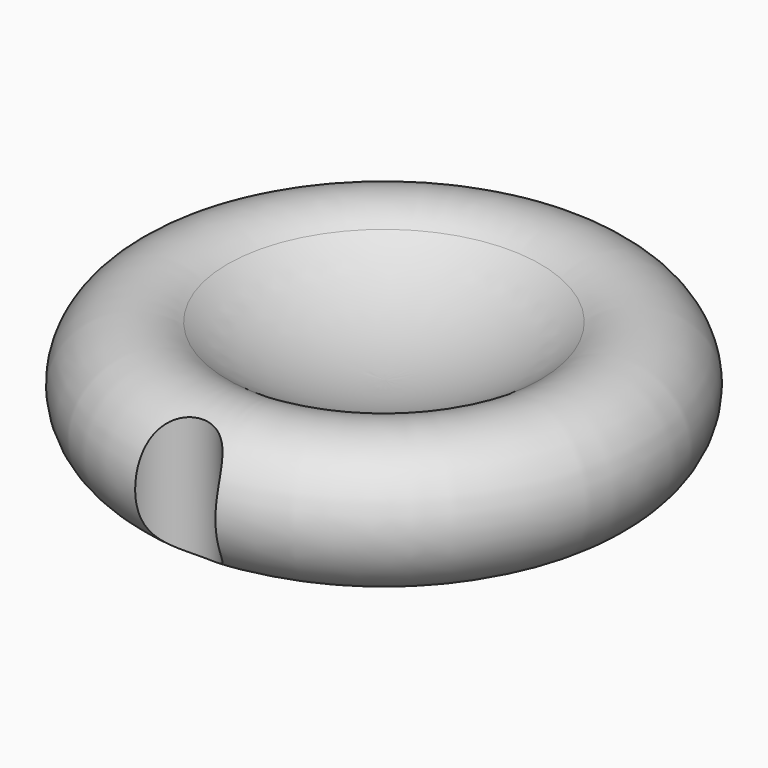
from build123d import *

# Parameters (mm, degrees)
F2_R     = 2.714454
F3_DEPTH = 25


with BuildPart() as f1:
    # F0 (on Front) → F1 (revolve)
    with BuildSketch(Plane.XZ):
        with BuildLine():
            Line((-13.131142, 0), (0, 0))
            Line((0, 0), (0, 4.778288))
            ThreePointArc((0, 4.778288), (-5.503935, 5.651343), (-10.467517, 8.184793))
            ThreePointArc((-10.467517, 8.184793), (-9.097652, 6.578611), (-8.605326, 4.525816))
            ThreePointArc((-8.605326, 4.525816), (-9.930907, 1.325581), (-13.131142, 0))
        make_face()
        with BuildLine():
            ThreePointArc((-10.467517, 8.184793), (-17.434795, 5.926378), (-13.131142, 0))
            ThreePointArc((-13.131142, 0), (-9.930907, 1.325581), (-8.605326, 4.525816))
            ThreePointArc((-8.605326, 4.525816), (-9.097652, 6.578611), (-10.467517, 8.184793))
        make_face()
    revolve(axis=Axis((0, 0, 2.389144), (0, 0, 1)))

    # F2 (on Top) → F3 (cut)
    with BuildSketch(Plane.XY):
        with Locations((0, -17.847622)):
            Circle(F2_R)
    extrude(amount=F3_DEPTH, mode=Mode.SUBTRACT)


solid = f1.part
